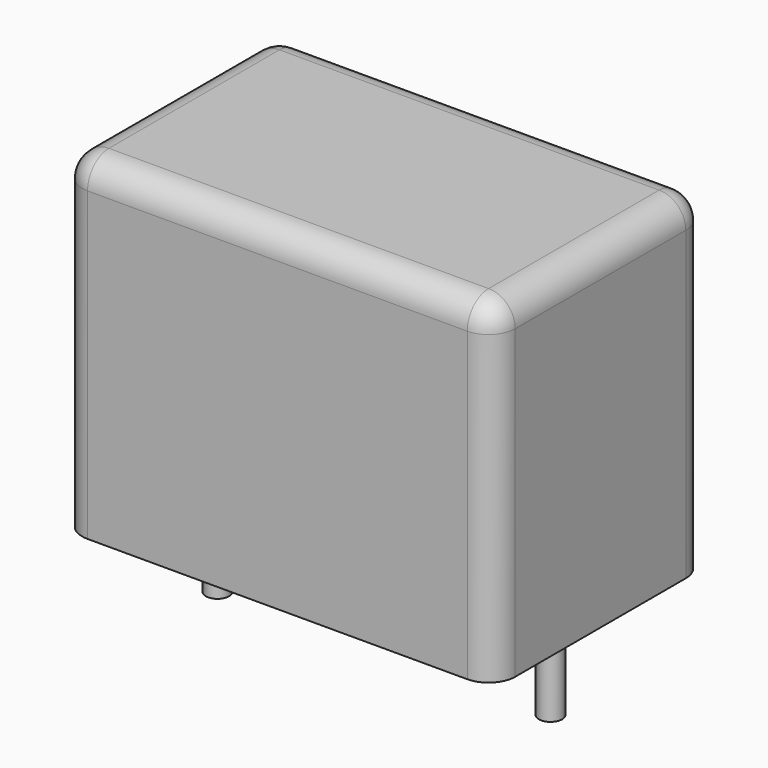
from build123d import *

# Parameters (mm, degrees)
SKETCH_W     = 13
SKETCH_H     = 8
PAD_DEPTH    = 10
FILLET_R     = 0.8
SKETCH001_R  = 0.35
PAD001_DEPTH = 3.2


with BuildPart() as fillet_body:
    # Sketch → Pad (new body)
    with BuildSketch(Plane.XY.offset(0.1)):
        with Locations((5, 0)):
            Rectangle(SKETCH_W, SKETCH_H)
    extrude(amount=PAD_DEPTH)

    # Fillet
    fillet_edges = [fillet_body.edges().sort_by_distance(p)[0] for p in [
        (-1.5, 0, 10.1),
        (-1.5, -4, 5.1),
        (5, -4, 10.1),
        (11.5, -4, 5.1),
        (11.5, 0, 10.1),
        (11.5, 4, 5.1),
        (5, 4, 10.1),
        (-1.5, 4, 5.1),
    ]]
    fillet(fillet_edges, radius=FILLET_R)


with BuildPart() as pad001:
    # Sketch001 → Pad001 (new body)
    with BuildSketch(Plane.XY.offset(0.5)):
        Circle(SKETCH001_R)
        with Locations((10, 0)):
            Circle(SKETCH001_R)
    extrude(amount=-PAD001_DEPTH)


solid = Compound([fillet_body.part, pad001.part])
